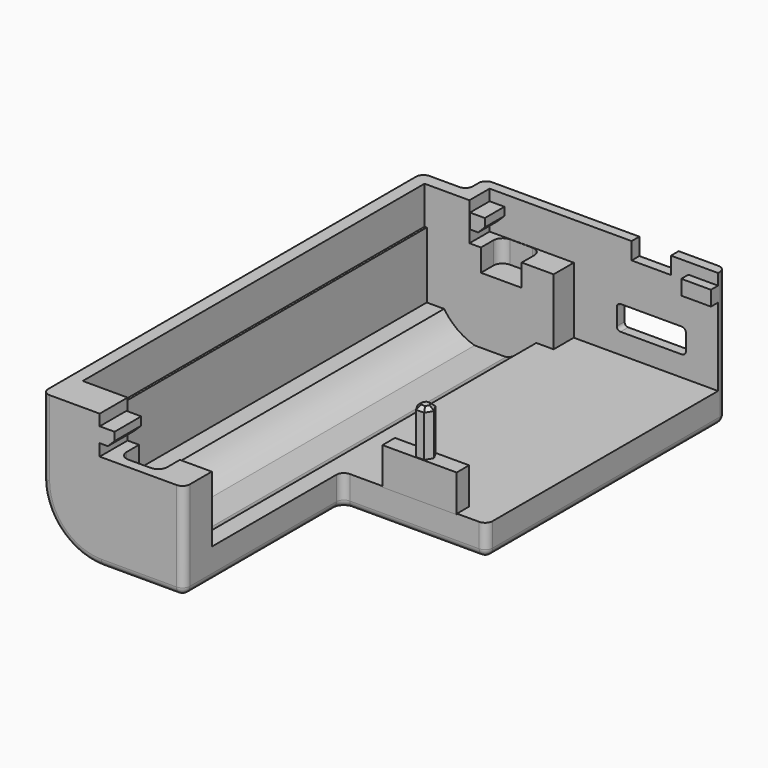
from build123d import *

# Parameters (mm, degrees)
PAD_DEPTH            = 18.2
SKETCH003_W          = 19.45
SKETCH003_H          = 39
POCKET_DEPTH         = 14.001
POCKET001_DEPTH      = 5.101
POCKET002_DEPTH      = 57.6
SKETCH011_W          = 5.3
SKETCH011_H          = 2.3
POCKET004_DEPTH      = 5
PAD005_DEPTH         = 10
PAD005_DEPTH_BACK    = 2.1
SKETCH014_W          = 10
SKETCH014_H          = 2.1
PAD006_DEPTH         = 5
CHAMFER001_SIZE      = 0.5
POCKET005_DEPTH      = 3
POCKET006_DEPTH      = 100
POCKET006_DEPTH_BACK = 100
FILLET001_R          = 1
SKETCH017_W          = 4
SKETCH017_H          = 1.2
SKETCH017_W_2        = 3.5
SKETCH017_H_2        = 4.5
SKETCH017_H_3        = 3.3
PAD008_DEPTH         = 2
CHAMFER_SIZE         = 0.9


with BuildPart() as body:
    # Sketch002 → Pad (new body)
    with BuildSketch(Plane.XY.offset(13.1)):
        Polygon((9, 0), (9, 1.3), (-23.5, 1.3), (-23.5, -1.7), (-29.55, -1.7), (-29.55, -65.7), (-10.45, -65.7), (-10.45, -39), (9, -39), align=None)
    extrude(amount=-PAD_DEPTH)

    # Sketch003 → Pocket (cut, through all)
    with BuildSketch(Plane.XY.offset(8.9)):
        with Locations((-0.725, -19.5)):
            Rectangle(SKETCH003_W, SKETCH003_H)
    extrude(amount=-POCKET_DEPTH, mode=Mode.SUBTRACT)

    # Sketch007 → Pocket001 (cut, through all)
    with BuildSketch(Plane.XY):
        Polygon((21.5, 0), (-21.8, 0), (-21.8, -3.4), (-27.85, -3.4), (-27.85, -61), (-21.8, -61), (-21.8, -68.9), (21.5, -68.9), align=None)
    extrude(amount=-POCKET001_DEPTH, mode=Mode.SUBTRACT)

    # Sketch008 → Pocket002 (cut)
    with BuildSketch(Plane.XZ.offset(3.4)):
        with BuildLine():
            ThreePointArc((-12.786305, 8.9), (-14.580794, 10.759754), (-16.9, 11.9))
            Line((-21.1, 11.9), (-16.9, 11.9))
            ThreePointArc((-21.1, 11.9), (-23.419206, 10.759754), (-25.213695, 8.9))
            Line((-25.213695, 8.9), (-27.55, 8.9))
            Line((-27.55, 8.9), (-27.55, -3.6))
            Line((-27.55, -3.6), (-10.45, -3.6))
            Line((-10.45, 8.9), (-10.45, -3.6))
            Line((-12.786305, 8.9), (-10.45, 8.9))
        make_face()
    extrude(amount=POCKET002_DEPTH, mode=Mode.SUBTRACT)

    # Sketch011 → Pocket004 (cut)
    with BuildSketch(Plane.XZ):
        with Locations((0, -3.95)):
            Rectangle(SKETCH011_W, SKETCH011_H)
        with BuildLine():
            Line((-4.65, 3.35), (-4.65, 5.65))
            ThreePointArc((-4.15, 6.15), (-4.503553, 6.003553), (-4.65, 5.65))
            Line((-4.15, 6.15), (4.15, 6.15))
            ThreePointArc((4.65, 5.65), (4.503553, 6.003553), (4.15, 6.15))
            Line((4.65, 5.65), (4.65, 3.35))
            ThreePointArc((4.15, 2.85), (4.503553, 2.996447), (4.65, 3.35))
            Line((4.15, 2.85), (-4.15, 2.85))
            ThreePointArc((-4.65, 3.35), (-4.503553, 2.996447), (-4.15, 2.85))
        make_face()
    extrude(amount=-POCKET004_DEPTH, mode=Mode.SUBTRACT)

    # Sketch012 → Pad005 (join, two sides)
    with BuildSketch(Plane.XY) as pad005_sk:
        Polygon((1.1, -38), (0.55, -37.047372), (-0.55, -37.047372), (-1.1, -38), (-0.55, -38.952628), (0.55, -38.952628), align=None)
    extrude(amount=PAD005_DEPTH)
    extrude(pad005_sk.sketch, amount=-PAD005_DEPTH_BACK)

    # Sketch014 → Pad006 (join)
    with BuildSketch(Plane.XY.offset(4)):
        with Locations((0, -38)):
            Rectangle(SKETCH014_W, SKETCH014_H)
    extrude(amount=PAD006_DEPTH)

    # Chamfer001
    chamfer001_edges = [body.edges().sort_by_distance(p)[0] for p in [
        (0.825, -37.523686, -2.1),
        (0, -37.047372, -2.1),
        (-0.825, -37.523686, -2.1),
        (-0.825, -38.476314, -2.1),
        (0, -38.952628, -2.1),
        (0.825, -38.476314, -2.1),
    ]]
    chamfer(chamfer001_edges, length=CHAMFER001_SIZE)

    # Sketch013 → Pocket005 (cut)
    with BuildSketch(Plane.XY):
        with BuildLine():
            Line((-20.25, -62.3), (-20.25, -63.1))
            ThreePointArc((-20.25, -63.1), (-19.883883, -63.983883), (-19, -64.35))
            Line((-16, -64.35), (-19, -64.35))
            ThreePointArc((-16, -64.35), (-15.116117, -63.983883), (-14.75, -63.1))
            Line((-14.75, -1.3), (-14.75, -63.1))
            ThreePointArc((-14.75, -1.3), (-15.116117, -0.416117), (-16, -0.05))
            Line((-19, -0.05), (-16, -0.05))
            ThreePointArc((-19, -0.05), (-19.883883, -0.416117), (-20.25, -1.3))
            Line((-20.25, -1.3), (-20.25, -2.1))
            Line((-20.25, -2.1), (-20.25, -62.3))
        make_face()
    extrude(amount=POCKET005_DEPTH, mode=Mode.SUBTRACT)

    # Sketch016 → Pocket006 (cut, two sides)
    with BuildSketch(Plane.XZ) as pocket006_sk:
        with BuildLine():
            ThreePointArc((-21.55, 13.1), (-27.206854, 10.756854), (-29.55, 5.1))
            Line((-29.55, 5.1), (-32.473244, 5.1))
            Line((-32.473244, 5.1), (-32.473244, 16.532589))
            Line((-32.473244, 16.532589), (-21.55, 16.532589))
            Line((-21.55, 16.532589), (-21.55, 13.1))
        make_face()
    extrude(amount=POCKET006_DEPTH, mode=Mode.SUBTRACT)
    extrude(pocket006_sk.sketch, amount=-POCKET006_DEPTH_BACK, mode=Mode.SUBTRACT)

    # Fillet001
    fillet001_edges = [body.edges().sort_by_distance(p)[0] for p in [
        (9, -19.5, 13.1),
        (-0.725, -39, 13.1),
        (-10.45, -52.35, 13.1),
        (-16, -65.7, 13.1),
        (-21.55, -32.2, 13.1),
        (-6.275, 1.3, 13.1),
        (9, 0.65, 13.1),
        (-22.532436, 1.3, 13.039447),
        (-23.5, 1.3, 3.879352),
        (-23.5, -0.2, 12.858705),
        (-23.5, -1.7, 3.879352),
        (-29.55, -1.7, 0),
        (-27.858724, -1.7, 10.01935),
        (-29.55, -65.7, 0),
        (-27.206854, -65.7, 10.756854),
        (-10.45, -65.7, 6.55),
        (-10.45, -39, 11),
        (9, -39, 11),
        (9, 1.3, 4),
    ]]
    fillet(fillet001_edges, radius=FILLET001_R)

    # Sketch017 → Pad008 (join)
    with BuildSketch(Plane.XY.offset(-1.6)):
        with Locations((7, -0.6)):
            Rectangle(SKETCH017_W, SKETCH017_H)
        with Locations((-21.55, -63.45)):
            Rectangle(SKETCH017_W_2, SKETCH017_H_2)
        with Locations((-21.55, -1.65)):
            Rectangle(SKETCH017_W_2, SKETCH017_H_3)
    extrude(amount=-PAD008_DEPTH)

    # Chamfer
    chamfer_edges = [body.edges().sort_by_distance(p)[0] for p in [
        (-19.8, -1.65, -1.6),
        (-19.8, -63.45, -1.6),
    ]]
    chamfer(chamfer_edges, length=CHAMFER_SIZE)


with BuildPart() as part_mirroring:
    # Part__Mirroring: instance of Body
    add(body.part.mirror(Plane(origin=(-10.604568, -32.200001, 0), x_dir=(0, 1, 0), z_dir=(0, 0, 1))))


with BuildPart() as part_mirroring_1:
    # Part__Mirroring placement: moved
    add(part_mirroring.part.moved(Location((0, 0, -15))))


solid = part_mirroring_1.part
